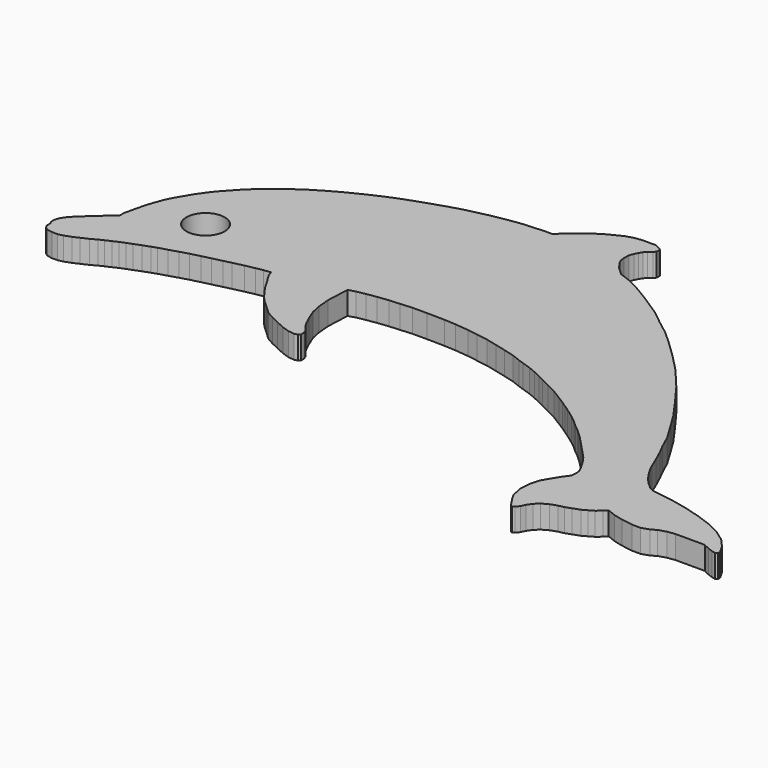
from build123d import *

# Parameters (mm, degrees)
F1_DEPTH = 3
F2_R     = 2.5
F3_DEPTH = 25


with BuildPart() as f1:
    # F0 (on Top) → F1 (new body)
    with BuildSketch(Plane.XY):
        Polygon((-15.730799, 5.961407), (-15.333602, 6.379438), (-14.23055, 5.938217), (-13.017192, 5.634878), (-11.47292, 5.386692), (-10.369868, 5.386692), (-9.377121, 5.717607), (-8.71529, 6.103675), (-7.722543, 6.407015), (-6.759536, 6.544031), (-5.648512, 6.544031), (-2.898512, 6.544031), (-2.143519, 6.172082), (-1.432937, 5.905614), (-0.958751, 5.802452), (-0.718174, 5.960331), (-0.718174, 6.328715), (-1.342171, 7.396276), (-2.342071, 8.523983), (-3.755463, 9.531401), (-5.500698, 10.391194), (-7.325879, 11.054362), (-9.323856, 11.633214), (-11.593104, 12.134065), (-13.273646, 12.395482), (-14.543387, 12.600881), (-15.078849, 12.864677), (-15.906493, 13.609205), (-16.491746, 14.255462), (-17.100707, 15.112519), (-17.611935, 15.95454), (-18.054786, 16.880063), (-18.588566, 18.158131), (-19.324108, 19.767182), (-19.886971, 20.867925), (-20.706741, 22.661232), (-22.149177, 25.05489), (-23.230727, 26.807845), (-25.104032, 29.444858), (-27.004647, 32.022206), (-29.435357, 34.913589), (-31.68154, 37.217367), (-33.939078, 39.380755), (-35.377086, 40.674352), (-37.233091, 42.09558), (-39.007033, 43.510098), (-41.91423, 45.403776), (-44.160413, 46.742847), (-45.4206, 47.36368), (-46.903713, 47.90256), (-47.918895, 48.815792), (-48.575735, 49.706507), (-48.850285, 50.24342), (-48.947302, 50.9253), (-48.912436, 51.649349), (-48.707337, 52.213825), (-48.476421, 52.682545), (-48.219116, 53.114154), (-47.874889, 53.425887), (-47.477956, 53.785352), (-47.231171, 54.059686), (-47.188784, 54.329673), (-47.229445, 54.615457), (-47.534224, 54.847835), (-48.14245, 55.147479), (-48.892477, 55.147479), (-49.677324, 55.147479), (-50.554798, 55.085243), (-51.180464, 54.952571), (-51.84426, 54.731306), (-52.482814, 54.439405), (-53.112901, 54.117211), (-53.625692, 53.854996), (-54.032592, 53.603944), (-54.446948, 53.354251), (-54.690121, 53.174928), (-55.039113, 52.91757), (-55.311637, 52.716603), (-55.622096, 52.487661), (-55.875371, 52.274739), (-56.223819, 51.981808), (-56.611718, 51.676213), (-57.081518, 51.25076), (-57.501299, 50.920048), (-57.758285, 50.634374), (-57.976971, 50.473107), (-59.066444, 50.473107), (-60.220191, 50.385651), (-61.942751, 50.279362), (-63.418918, 50.051776), (-65.268832, 49.737391), (-66.858634, 49.372324), (-68.515855, 48.984778), (-69.929015, 48.572607), (-71.051691, 48.19969), (-72.486501, 47.731071), (-73.624878, 47.330677), (-74.600247, 46.980756), (-76.387, 46.276589), (-78.552194, 45.28421), (-80.452043, 44.338929), (-82.141074, 43.388472), (-83.573575, 42.527306), (-84.850303, 41.647855), (-86.032026, 40.789821), (-87.006993, 39.990347), (-88.628932, 38.567288), (-89.651388, 37.439583), (-90.613696, 36.402094), (-91.231041, 35.594594), (-91.938629, 34.59743), (-92.604552, 33.495627), (-93.203886, 32.442253), (-93.590017, 31.691846), (-94.025895, 30.517395), (-94.377018, 29.464024), (-94.722154, 28.008917), (-95.002243, 26.757846), (-95.002243, 26.141647), (-95.711661, 25.519217), (-96.818141, 24.476556), (-98.253868, 23.216875), (-98.962789, 22.452569), (-99.426301, 21.764867), (-99.553564, 21.385612), (-99.639441, 21.111533), (-99.591087, 20.617737), (-99.438093, 20.283932), (-99.438093, 19.725302), (-99.204775, 19.31068), (-98.766307, 19.015151), (-98.130169, 18.898318), (-97.378364, 18.898318), (-96.71678, 19.048678), (-95.835226, 19.364942), (-95.065586, 19.717694), (-94.180246, 20.123473), (-93.407883, 20.558101), (-92.801212, 20.836158), (-92.088295, 21.162911), (-91.409123, 21.474198), (-90.72312, 21.757939), (-90.011677, 22.013174), (-89.133037, 22.356668), (-88.175186, 22.700304), (-87.549218, 22.924874), (-86.438134, 23.251663), (-85.249615, 23.618334), (-84.142379, 23.943991), (-82.924489, 24.255178), (-81.762146, 24.533657), (-80.508993, 24.83635), (-79.510107, 25.078505), (-78.154189, 25.39145), (-76.886732, 25.649817), (-75.980009, 25.820437), (-75.092787, 25.927683), (-74.849382, 25.249214), (-74.567828, 24.748873), (-74.225337, 24.251668), (-73.910092, 23.691456), (-73.517589, 22.99395), (-73.167025, 22.485024), (-72.840714, 22.035613), (-72.557265, 21.645235), (-72.031472, 20.978388), (-71.604508, 20.525291), (-71.021807, 19.984815), (-70.310004, 19.324593), (-69.717988, 18.775477), (-68.762008, 18.229325), (-67.650982, 17.70649), (-66.567967, 17.211665), (-65.585552, 16.882006), (-64.766057, 16.791529), (-64.356625, 16.91195), (-64.1312, 17.154985), (-64.1312, 17.585117), (-64.31677, 18.102374), (-64.889389, 18.755019), (-65.343369, 19.561774), (-65.733446, 20.412852), (-66.288525, 21.782336), (-66.559759, 23.112911), (-66.708805, 24.775672), (-66.569674, 27.767027), (-65.659476, 28.034732), (-64.547466, 28.243981), (-63.265157, 28.439454), (-61.842496, 28.608964), (-60.480378, 28.705824), (-58.909079, 28.826914), (-57.009161, 28.826914), (-54.741047, 28.791113), (-53.23157, 28.707408), (-51.421465, 28.525792), (-50.071449, 28.307853), (-48.61852, 28.089914), (-47.140746, 27.730644), (-45.784679, 27.391629), (-44.349912, 27.010237), (-43.236001, 26.574356), (-42.471834, 26.317933), (-41.312861, 25.929029), (-40.374771, 25.535801), (-39.375426, 25.077566), (-38.641366, 24.702176), (-37.393075, 24.078029), (-36.060299, 23.393908), (-34.843334, 22.638442), (-33.942189, 22.076576), (-33.145939, 21.539903), (-32.506663, 21.109029), (-31.313153, 20.247932), (-30.367119, 19.506022), (-29.692227, 18.880036), (-28.890614, 18.229325), (-28.439171, 17.810595), (-27.680286, 17.106703), (-26.844474, 16.219733), (-26.057114, 15.384181), (-25.30201, 14.582859), (-24.644759, 13.885379), (-23.931629, 12.850104), (-23.365318, 11.84373), (-23.102834, 11.271035), (-23.033888, 10.734588), (-23.068361, 10.116925), (-23.287551, 9.730034), (-23.612935, 9.315126), (-23.944767, 8.782919), (-24.480542, 7.923619), (-24.96366, 7.070869), (-25.256778, 5.961407), (-25.371766, 4.529508), (-25.06419, 3.020653), (-24.577274, 2.15537), (-24.149341, 1.534124), (-23.962652, 1.202365), (-23.730349, 0.907743), (-23.553396, 0.878107), (-23.296429, 1.022709), (-22.950214, 1.464179), (-22.681303, 2.035885), (-22.265212, 2.653229), (-21.686246, 3.198802), (-20.884574, 3.649922), (-20.030728, 3.956245), (-19.291541, 4.106927), (-18.540721, 4.376289), (-17.632591, 4.702087), (-16.972477, 5.073549), (-16.331888, 5.434023), align=None)
    extrude(amount=F1_DEPTH)

    # F2 (on face) → F3 (cut)
    with BuildSketch(Plane.XY.offset(3)):
        with Locations((-86.940393, 30.035166)):
            Circle(F2_R)
    extrude(amount=-F3_DEPTH, mode=Mode.SUBTRACT)


solid = f1.part
